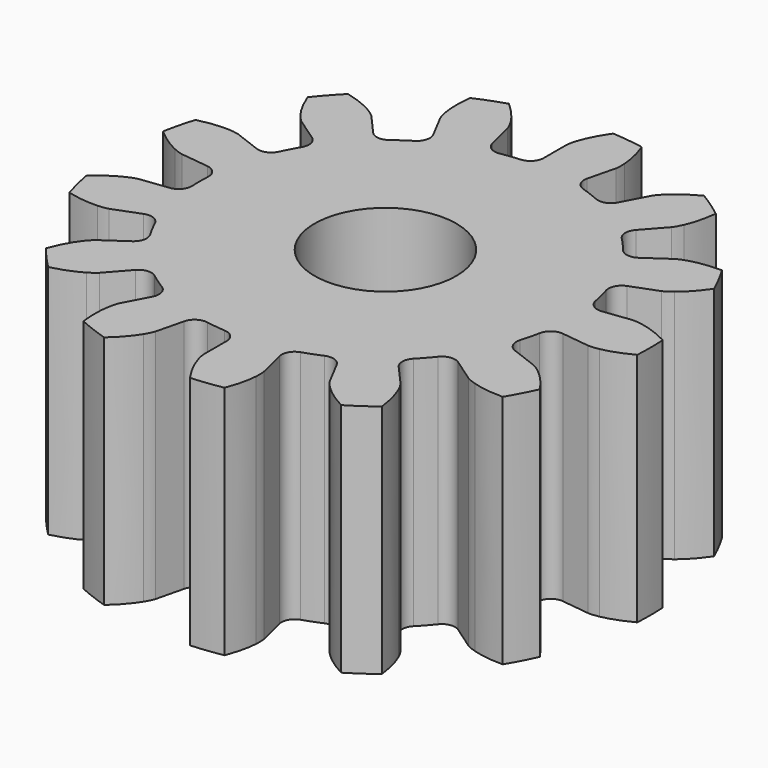
from build123d import *

# Parameters (mm, degrees)
SKETCH019_R  = 3.009992
PAD011_DEPTH = 100
PAD_DEPTH    = 10


with BuildPart() as pad011:
    # Sketch019 → Pad011 (new body, symmetric)
    with BuildSketch(Plane(origin=(0, 0, 0), x_dir=(1, 0, 0), z_dir=(0, 0, -1))):
        Circle(SKETCH019_R)
    extrude(amount=PAD011_DEPTH, both=True)


with BuildPart() as obj1:
    # InvoluteGear → Pad (new body)
    with BuildSketch(Plane.XY):
        with BuildLine():
            Line((8.355513, -1.029758), (9.548181, -1.175965))
            add(Edge.make_bspline(
                [(9.548181, -1.175965), (9.5967, -1.178924), (9.742908, -1.18188), (9.988316, -1.135943)],
                knots=[0, 0, 0, 0, 1, 1, 1, 1], degree=3))
            add(Edge.make_bspline(
                [(9.988316, -1.135943), (10.281884, -1.080014), (10.705563, -0.954393), (11.230767, -0.676657)],
                knots=[0, 0, 0, 0, 1, 1, 1, 1], degree=3))
            ThreePointArc((11.230767, -0.676657), (11.251135, 0), (11.230767, 0.676657))
            add(Edge.make_bspline(
                [(11.230767, 0.676657), (10.705563, 0.954393), (10.281884, 1.080014), (9.988316, 1.135943)],
                knots=[0, 0, 0, 0, 1, 1, 1, 1], degree=3))
            add(Edge.make_bspline(
                [(9.988316, 1.135943), (9.742908, 1.18188), (9.5967, 1.178924), (9.548181, 1.175965)],
                knots=[0, 0, 0, 0, 1, 1, 1, 1], degree=3))
            Line((9.548181, 1.175965), (8.355513, 1.029758))
            ThreePointArc((8.355513, 1.029758), (7.956052, 1.132981), (7.734481, 1.48102))
            ThreePointArc((7.734481, 1.48102), (7.646167, 1.884611), (7.536808, 2.283014))
            ThreePointArc((7.536808, 2.283014), (7.571257, 2.694156), (7.876992, 2.971196))
            Line((7.876992, 2.971196), (9.000992, 3.395996))
            add(Edge.make_bspline(
                [(9.000992, 3.395996), (9.04533, 3.415923), (9.176163, 3.481252), (9.372113, 3.635975)],
                knots=[0, 0, 0, 0, 1, 1, 1, 1], degree=3))
            add(Edge.make_bspline(
                [(9.372113, 3.635975), (9.606064, 3.821924), (9.922834, 4.130051), (10.258808, 4.620047)],
                knots=[0, 0, 0, 0, 1, 1, 1, 1], degree=3))
            ThreePointArc((10.258808, 4.620047), (9.962385, 5.228663), (9.629892, 5.818348))
            add(Edge.make_bspline(
                [(9.629892, 5.818348), (9.035777, 5.820196), (8.602248, 5.734535), (8.316315, 5.647629)],
                knots=[0, 0, 0, 0, 1, 1, 1, 1], degree=3))
            add(Edge.make_bspline(
                [(8.316315, 5.647629), (8.077669, 5.574257), (7.949583, 5.503695), (7.907996, 5.478526)],
                knots=[0, 0, 0, 0, 1, 1, 1, 1], degree=3))
            Line((7.907996, 5.478526), (6.919887, 4.794806))
            ThreePointArc((6.919887, 4.794806), (6.518211, 4.700567), (6.160279, 4.905771))
            ThreePointArc((6.160279, 4.905771), (5.894522, 5.222091), (5.612542, 5.524038))
            ThreePointArc((5.612542, 5.524038), (5.451978, 5.904095), (5.593946, 6.291484))
            Line((5.593946, 6.291484), (6.391785, 7.189975))
            add(Edge.make_bspline(
                [(6.391785, 7.189975), (6.421783, 7.228224), (6.50727, 7.346872), (6.608872, 7.574934)],
                knots=[0, 0, 0, 0, 1, 1, 1, 1], degree=3))
            add(Edge.make_bspline(
                [(6.608872, 7.574934), (6.72961, 7.848306), (6.866903, 8.268349), (6.936681, 8.858355)],
                knots=[0, 0, 0, 0, 1, 1, 1, 1], degree=3))
            ThreePointArc((6.936681, 8.858355), (6.391373, 9.259502), (5.822925, 9.627125))
            add(Edge.make_bspline(
                [(5.822925, 9.627125), (5.296003, 9.352662), (4.951941, 9.075343), (4.739148, 8.865511)],
                knots=[0, 0, 0, 0, 1, 1, 1, 1], degree=3))
            add(Edge.make_bspline(
                [(4.739148, 8.865511), (4.561934, 8.68964), (4.481311, 8.567635), (4.456185, 8.526023)],
                knots=[0, 0, 0, 0, 1, 1, 1, 1], degree=3))
            Line((4.456185, 8.526023), (3.898999, 7.461421))
            ThreePointArc((3.898999, 7.461421), (3.587127, 7.191309), (3.17483, 7.206669))
            ThreePointArc((3.17483, 7.206669), (2.792513, 7.363253), (2.402511, 7.499571))
            ThreePointArc((2.402511, 7.499571), (2.083717, 7.761477), (2.029395, 8.170468))
            Line((2.029395, 8.170468), (2.318297, 9.336817))
            add(Edge.make_bspline(
                [(2.318297, 9.336817), (2.327083, 9.384626), (2.34764, 9.529411), (2.331619, 9.778567)],
                knots=[0, 0, 0, 0, 1, 1, 1, 1], degree=3))
            add(Edge.make_bspline(
                [(2.331619, 9.778567), (2.311484, 10.076736), (2.237847, 10.512468), (2.025443, 11.06732)],
                knots=[0, 0, 0, 0, 1, 1, 1, 1], degree=3))
            ThreePointArc((2.025443, 11.06732), (1.356174, 11.169101), (0.681996, 11.230444))
            add(Edge.make_bspline(
                [(0.681996, 11.230444), (0.342979, 10.742547), (0.167204, 10.337099), (0.076298, 10.052412)],
                knots=[0, 0, 0, 0, 1, 1, 1, 1], degree=3))
            add(Edge.make_bspline(
                [(0.076298, 10.052412), (0.001115, 9.814331), (-0.013574, 9.668833), (-0.016485, 9.620311)],
                knots=[0, 0, 0, 0, 1, 1, 1, 1], degree=3))
            Line((-0.016485, 9.620311), (-0.015104, 8.418716))
            ThreePointArc((-0.015104, 8.418716), (-0.165725, 8.034609), (-0.537933, 7.856606))
            ThreePointArc((-0.537933, 7.856606), (-0.949226, 7.817582), (-1.357907, 7.757043))
            ThreePointArc((-1.357907, 7.757043), (-1.761899, 7.840798), (-2.000066, 8.177698))
            Line((-2.000066, 8.177698), (-2.286285, 9.344707))
            add(Edge.make_bspline(
                [(-2.286285, 9.344707), (-2.300723, 9.391123), (-2.349806, 9.528877), (-2.479781, 9.742048)],
                knots=[0, 0, 0, 0, 1, 1, 1, 1], degree=3))
            add(Edge.make_bspline(
                [(-2.479781, 9.742048), (-2.636175, 9.996707), (-2.903872, 10.348308), (-3.349799, 10.740895)],
                knots=[0, 0, 0, 0, 1, 1, 1, 1], degree=3))
            ThreePointArc((-3.349799, 10.740895), (-3.989707, 10.519994), (-4.61517, 10.261003))
            add(Edge.make_bspline(
                [(-4.61517, 10.261003), (-4.688617, 9.671443), (-4.655837, 9.23075), (-4.60403, 8.936427)],
                knots=[0, 0, 0, 0, 1, 1, 1, 1], degree=3))
            add(Edge.make_bspline(
                [(-4.60403, 8.936427), (-4.559959, 8.690677), (-4.50535, 8.555018), (-4.485378, 8.510701)],
                knots=[0, 0, 0, 0, 1, 1, 1, 1], degree=3))
            Line((-4.485378, 8.510701), (-3.925746, 7.447383))
            ThreePointArc((-3.925746, 7.447383), (-3.880611, 7.037277), (-4.127463, 6.706689))
            ThreePointArc((-4.127463, 6.706689), (-4.47351, 6.480998), (-4.807244, 6.23747))
            ThreePointArc((-4.807244, 6.23747), (-5.203885, 6.123887), (-5.571336, 6.311515))
            Line((-5.571336, 6.311515), (-6.367107, 7.211837))
            add(Edge.make_bspline(
                [(-6.367107, 7.211837), (-6.401462, 7.246227), (-6.50894, 7.345392), (-6.723092, 7.473744)],
                knots=[0, 0, 0, 0, 1, 1, 1, 1], degree=3))
            add(Edge.make_bspline(
                [(-6.723092, 7.473744), (-6.979918, 7.626553), (-7.38035, 7.813474), (-7.957643, 7.953861)],
                knots=[0, 0, 0, 0, 1, 1, 1, 1], degree=3))
            ThreePointArc((-7.957643, 7.953861), (-8.421595, 7.460882), (-8.855056, 6.940891))
            add(Edge.make_bspline(
                [(-8.855056, 6.940891), (-8.646108, 6.384728), (-8.412283, 6.009748), (-8.229631, 5.773213)],
                knots=[0, 0, 0, 0, 1, 1, 1, 1], degree=3))
            add(Edge.make_bspline(
                [(-8.229631, 5.773213), (-8.076402, 5.576093), (-7.965005, 5.481352), (-7.926725, 5.451393)],
                knots=[0, 0, 0, 0, 1, 1, 1, 1], degree=3))
            Line((-7.926725, 5.451393), (-6.937047, 4.769945))
            ThreePointArc((-6.937047, 4.769945), (-6.706496, 4.427789), (-6.771441, 4.02035))
            ThreePointArc((-6.771441, 4.02035), (-6.972966, 3.659695), (-7.1553, 3.288967))
            ThreePointArc((-7.1553, 3.288967), (-7.453723, 3.004067), (-7.86628, 2.99944))
            Line((-7.86628, 2.99944), (-8.989301, 3.426823))
            add(Edge.make_bspline(
                [(-8.989301, 3.426823), (-9.035703, 3.441308), (-9.176954, 3.479167), (-9.426224, 3.493294)],
                knots=[0, 0, 0, 0, 1, 1, 1, 1], degree=3))
            add(Edge.make_bspline(
                [(-9.426224, 3.493294), (-9.724647, 3.509247), (-10.166078, 3.488669), (-10.742486, 3.344693)],
                knots=[0, 0, 0, 0, 1, 1, 1, 1], degree=3))
            ThreePointArc((-10.742486, 3.344693), (-10.924197, 2.692573), (-11.066356, 2.030704))
            add(Edge.make_bspline(
                [(-11.066356, 2.030704), (-10.62288, 1.635349), (-10.241575, 1.411985), (-9.969922, 1.287426)],
                knots=[0, 0, 0, 0, 1, 1, 1, 1], degree=3))
            add(Edge.make_bspline(
                [(-9.969922, 1.287426), (-9.742639, 1.184094), (-9.599973, 1.151974), (-9.552155, 1.143236)],
                knots=[0, 0, 0, 0, 1, 1, 1, 1], degree=3))
            Line((-9.552155, 1.143236), (-8.359154, 0.99977))
            ThreePointArc((-8.359154, 0.99977), (-7.996004, 0.803949), (-7.864163, 0.412998))
            ThreePointArc((-7.864163, 0.412998), (-7.875, 0), (-7.864163, -0.412998))
            ThreePointArc((-7.864163, -0.412998), (-7.996004, -0.803949), (-8.359154, -0.99977))
            Line((-8.359154, -0.99977), (-9.552155, -1.143236))
            add(Edge.make_bspline(
                [(-9.552155, -1.143236), (-9.599973, -1.151974), (-9.742639, -1.184094), (-9.969922, -1.287426)],
                knots=[0, 0, 0, 0, 1, 1, 1, 1], degree=3))
            add(Edge.make_bspline(
                [(-9.969922, -1.287426), (-10.241575, -1.411985), (-10.62288, -1.635349), (-11.066356, -2.030704)],
                knots=[0, 0, 0, 0, 1, 1, 1, 1], degree=3))
            ThreePointArc((-11.066356, -2.030704), (-10.924197, -2.692573), (-10.742486, -3.344693))
            add(Edge.make_bspline(
                [(-10.742486, -3.344693), (-10.166078, -3.488669), (-9.724647, -3.509247), (-9.426224, -3.493294)],
                knots=[0, 0, 0, 0, 1, 1, 1, 1], degree=3))
            add(Edge.make_bspline(
                [(-9.426224, -3.493294), (-9.176954, -3.479167), (-9.035703, -3.441308), (-8.989301, -3.426823)],
                knots=[0, 0, 0, 0, 1, 1, 1, 1], degree=3))
            Line((-8.989301, -3.426823), (-7.86628, -2.99944))
            ThreePointArc((-7.86628, -2.99944), (-7.453723, -3.004067), (-7.1553, -3.288967))
            ThreePointArc((-7.1553, -3.288967), (-6.972966, -3.659695), (-6.771441, -4.02035))
            ThreePointArc((-6.771441, -4.02035), (-6.706496, -4.427789), (-6.937047, -4.769945))
            Line((-6.937047, -4.769945), (-7.926725, -5.451393))
            add(Edge.make_bspline(
                [(-7.926725, -5.451393), (-7.965005, -5.481352), (-8.076402, -5.576093), (-8.229631, -5.773213)],
                knots=[0, 0, 0, 0, 1, 1, 1, 1], degree=3))
            add(Edge.make_bspline(
                [(-8.229631, -5.773213), (-8.412283, -6.009748), (-8.646108, -6.384728), (-8.855056, -6.940891)],
                knots=[0, 0, 0, 0, 1, 1, 1, 1], degree=3))
            ThreePointArc((-8.855056, -6.940891), (-8.421595, -7.460882), (-7.957643, -7.953861))
            add(Edge.make_bspline(
                [(-7.957643, -7.953861), (-7.38035, -7.813474), (-6.979918, -7.626553), (-6.723092, -7.473744)],
                knots=[0, 0, 0, 0, 1, 1, 1, 1], degree=3))
            add(Edge.make_bspline(
                [(-6.723092, -7.473744), (-6.50894, -7.345392), (-6.401462, -7.246227), (-6.367107, -7.211837)],
                knots=[0, 0, 0, 0, 1, 1, 1, 1], degree=3))
            Line((-6.367107, -7.211837), (-5.571336, -6.311515))
            ThreePointArc((-5.571336, -6.311515), (-5.203885, -6.123887), (-4.807244, -6.23747))
            ThreePointArc((-4.807244, -6.23747), (-4.47351, -6.480998), (-4.127463, -6.706689))
            ThreePointArc((-4.127463, -6.706689), (-3.880611, -7.037277), (-3.925746, -7.447383))
            Line((-3.925746, -7.447383), (-4.485378, -8.510701))
            add(Edge.make_bspline(
                [(-4.485378, -8.510701), (-4.50535, -8.555018), (-4.559959, -8.690677), (-4.60403, -8.936427)],
                knots=[0, 0, 0, 0, 1, 1, 1, 1], degree=3))
            add(Edge.make_bspline(
                [(-4.60403, -8.936427), (-4.655837, -9.23075), (-4.688617, -9.671443), (-4.61517, -10.261003)],
                knots=[0, 0, 0, 0, 1, 1, 1, 1], degree=3))
            ThreePointArc((-4.61517, -10.261003), (-3.989707, -10.519994), (-3.349799, -10.740895))
            add(Edge.make_bspline(
                [(-3.349799, -10.740895), (-2.903872, -10.348308), (-2.636175, -9.996707), (-2.479781, -9.742048)],
                knots=[0, 0, 0, 0, 1, 1, 1, 1], degree=3))
            add(Edge.make_bspline(
                [(-2.479781, -9.742048), (-2.349806, -9.528877), (-2.300723, -9.391123), (-2.286285, -9.344707)],
                knots=[0, 0, 0, 0, 1, 1, 1, 1], degree=3))
            Line((-2.286285, -9.344707), (-2.000066, -8.177698))
            ThreePointArc((-2.000066, -8.177698), (-1.761899, -7.840798), (-1.357907, -7.757043))
            ThreePointArc((-1.357907, -7.757043), (-0.949226, -7.817582), (-0.537933, -7.856606))
            ThreePointArc((-0.537933, -7.856606), (-0.165725, -8.034609), (-0.015104, -8.418716))
            Line((-0.015104, -8.418716), (-0.016485, -9.620311))
            add(Edge.make_bspline(
                [(-0.016485, -9.620311), (-0.013574, -9.668833), (0.001115, -9.814331), (0.076298, -10.052412)],
                knots=[0, 0, 0, 0, 1, 1, 1, 1], degree=3))
            add(Edge.make_bspline(
                [(0.076298, -10.052412), (0.167204, -10.337099), (0.342979, -10.742547), (0.681996, -11.230444)],
                knots=[0, 0, 0, 0, 1, 1, 1, 1], degree=3))
            ThreePointArc((0.681996, -11.230444), (1.356174, -11.169101), (2.025443, -11.06732))
            add(Edge.make_bspline(
                [(2.025443, -11.06732), (2.237847, -10.512468), (2.311484, -10.076736), (2.331619, -9.778567)],
                knots=[0, 0, 0, 0, 1, 1, 1, 1], degree=3))
            add(Edge.make_bspline(
                [(2.331619, -9.778567), (2.34764, -9.529411), (2.327083, -9.384626), (2.318297, -9.336817)],
                knots=[0, 0, 0, 0, 1, 1, 1, 1], degree=3))
            Line((2.318297, -9.336817), (2.029395, -8.170468))
            ThreePointArc((2.029395, -8.170468), (2.083717, -7.761477), (2.402511, -7.499571))
            ThreePointArc((2.402511, -7.499571), (2.792513, -7.363253), (3.17483, -7.206669))
            ThreePointArc((3.17483, -7.206669), (3.587127, -7.191309), (3.898999, -7.461421))
            Line((3.898999, -7.461421), (4.456185, -8.526023))
            add(Edge.make_bspline(
                [(4.456185, -8.526023), (4.481311, -8.567635), (4.561934, -8.68964), (4.739148, -8.865511)],
                knots=[0, 0, 0, 0, 1, 1, 1, 1], degree=3))
            add(Edge.make_bspline(
                [(4.739148, -8.865511), (4.951941, -9.075343), (5.296003, -9.352662), (5.822925, -9.627125)],
                knots=[0, 0, 0, 0, 1, 1, 1, 1], degree=3))
            ThreePointArc((5.822925, -9.627125), (6.391373, -9.259502), (6.936681, -8.858355))
            add(Edge.make_bspline(
                [(6.936681, -8.858355), (6.866903, -8.268349), (6.72961, -7.848306), (6.608872, -7.574934)],
                knots=[0, 0, 0, 0, 1, 1, 1, 1], degree=3))
            add(Edge.make_bspline(
                [(6.608872, -7.574934), (6.50727, -7.346872), (6.421783, -7.228224), (6.391785, -7.189975)],
                knots=[0, 0, 0, 0, 1, 1, 1, 1], degree=3))
            Line((6.391785, -7.189975), (5.593946, -6.291484))
            ThreePointArc((5.593946, -6.291484), (5.451978, -5.904095), (5.612542, -5.524038))
            ThreePointArc((5.612542, -5.524038), (5.894522, -5.222091), (6.160279, -4.905771))
            ThreePointArc((6.160279, -4.905771), (6.518211, -4.700567), (6.919887, -4.794806))
            Line((6.919887, -4.794806), (7.907996, -5.478526))
            add(Edge.make_bspline(
                [(7.907996, -5.478526), (7.949583, -5.503695), (8.077669, -5.574257), (8.316315, -5.647629)],
                knots=[0, 0, 0, 0, 1, 1, 1, 1], degree=3))
            add(Edge.make_bspline(
                [(8.316315, -5.647629), (8.602248, -5.734535), (9.035777, -5.820196), (9.629892, -5.818348)],
                knots=[0, 0, 0, 0, 1, 1, 1, 1], degree=3))
            ThreePointArc((9.629892, -5.818348), (9.962385, -5.228663), (10.258808, -4.620047))
            add(Edge.make_bspline(
                [(10.258808, -4.620047), (9.922834, -4.130051), (9.606064, -3.821924), (9.372113, -3.635975)],
                knots=[0, 0, 0, 0, 1, 1, 1, 1], degree=3))
            add(Edge.make_bspline(
                [(9.372113, -3.635975), (9.176163, -3.481252), (9.04533, -3.415923), (9.000992, -3.395996)],
                knots=[0, 0, 0, 0, 1, 1, 1, 1], degree=3))
            Line((9.000992, -3.395996), (7.876992, -2.971196))
            ThreePointArc((7.876992, -2.971196), (7.571257, -2.694156), (7.536808, -2.283014))
            ThreePointArc((7.536808, -2.283014), (7.646167, -1.884611), (7.734481, -1.48102))
            ThreePointArc((7.734481, -1.48102), (7.956052, -1.132981), (8.355513, -1.029758))
        make_face()
    extrude(amount=PAD_DEPTH)

    # Cut008: cut Pad011
    add(pad011.part, mode=Mode.SUBTRACT)


solid = obj1.part
